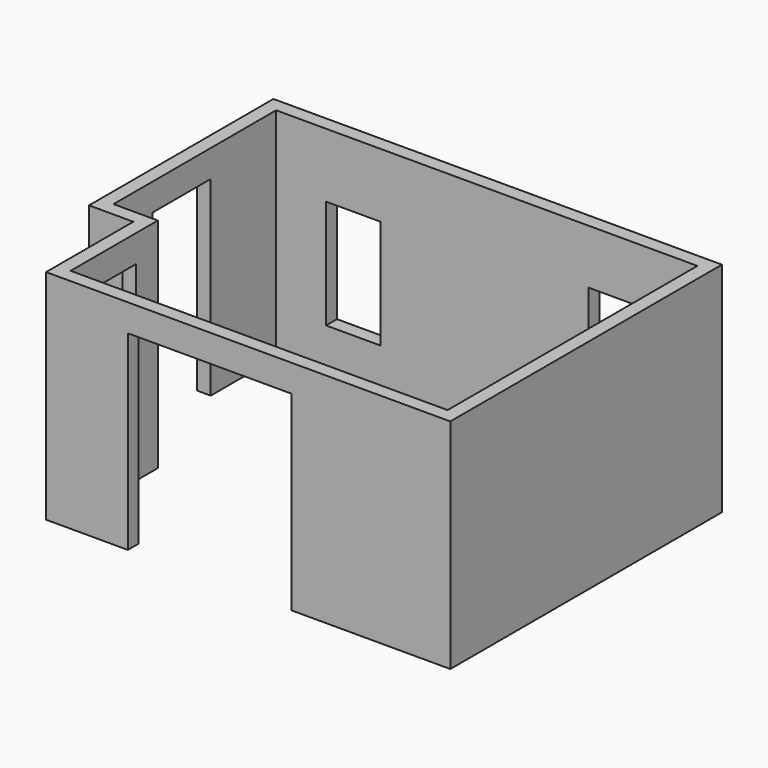
from build123d import *

# Parameters (mm, degrees)
F2_DEPTH  = 2438.4
F5_DEPTH  = 2438.4
F6_W      = 609.6
F6_H      = 1219.2
F7_DEPTH  = 1252.9482413083
F8_W      = 1828.8
F8_H      = 2133.6
F9_DEPTH  = 152.4
F10_W     = 812.8
F10_H     = 2133.6
F11_DEPTH = 152.4
F12_W     = 812.8
F12_H     = 2133.6
F13_DEPTH = 152.4


with BuildPart() as f2:
    # F0 (on Top) → F2 (new body)
    with BuildSketch(Plane.XY):
        Polygon((2362.2329086721, -1658.3651153564), (2362.2329086721, 1834.1348846436), (-2349.4670913279, 1834.1348846436), (-2349.4670913279, -439.1651153564), (-1854.1670913279, -439.1651153564), (-1854.1670913279, -1658.3651153564), align=None)
    extrude(amount=F2_DEPTH)


with BuildPart() as f2b:
    # F1 (on face) → F2, piece 2 (new body)
    with BuildSketch(Plane.XY):
        Polygon((2514.6329086721, -1810.7651153564), (2514.6329086721, 1986.5348846436), (-2501.8670913279, 1986.5348846436), (-2501.8670913279, -591.5651153564), (-2006.5670913279, -591.5651153564), (-2006.5670913279, -1810.7651153564), align=None)
    extrude(amount=F2_DEPTH)

    # F4 (on face) → F5 (cut)
    with BuildSketch(Plane.XY):
        Polygon((-1854.1670913279, -1658.3651153564), (2362.2329086721, -1658.3651153564), (2362.2329086721, 1834.1348846436), (-2349.4670913279, 1834.1348846436), (-2349.4670913279, -439.1651153564), (-1854.1670913279, -439.1651153564), align=None)
    extrude(amount=F5_DEPTH, mode=Mode.SUBTRACT)

    # F6 (on face) → F7 (cut)
    with BuildSketch(Plane.XZ.offset(-1834.1348846436)):
        with Locations((1447.8329086721, 1219.2)):
            Rectangle(F6_W, F6_H)
        with Locations((-1485.8670913279, 1111.0115667624)):
            Rectangle(F6_W, F6_H)
    extrude(amount=-F7_DEPTH, mode=Mode.SUBTRACT)

    # F8 (on face) → F9 (cut)
    with BuildSketch(Plane.XZ.offset(1810.7651153564)):
        with Locations((-177.7670913279, 1066.8)):
            Rectangle(F8_W, F8_H)
    extrude(amount=-F9_DEPTH, mode=Mode.SUBTRACT)

    # F10 (on face) → F11 (cut)
    with BuildSketch(Plane(origin=(-2006.5670913279, 0, 0), x_dir=(0, -1, 0), z_dir=(-1, 0, 0))):
        with Locations((1150.3651153564, 1066.8)):
            Rectangle(F10_W, F10_H)
    extrude(amount=-F11_DEPTH, mode=Mode.SUBTRACT)

    # F12 (on face) → F13 (cut)
    with BuildSketch(Plane(origin=(-2501.8670913279, 0, 0), x_dir=(0, -1, 0), z_dir=(-1, 0, 0))):
        with Locations((-513.3348846436, 1066.8)):
            Rectangle(F12_W, F12_H)
    extrude(amount=-F13_DEPTH, mode=Mode.SUBTRACT)


solid = f2b.part
